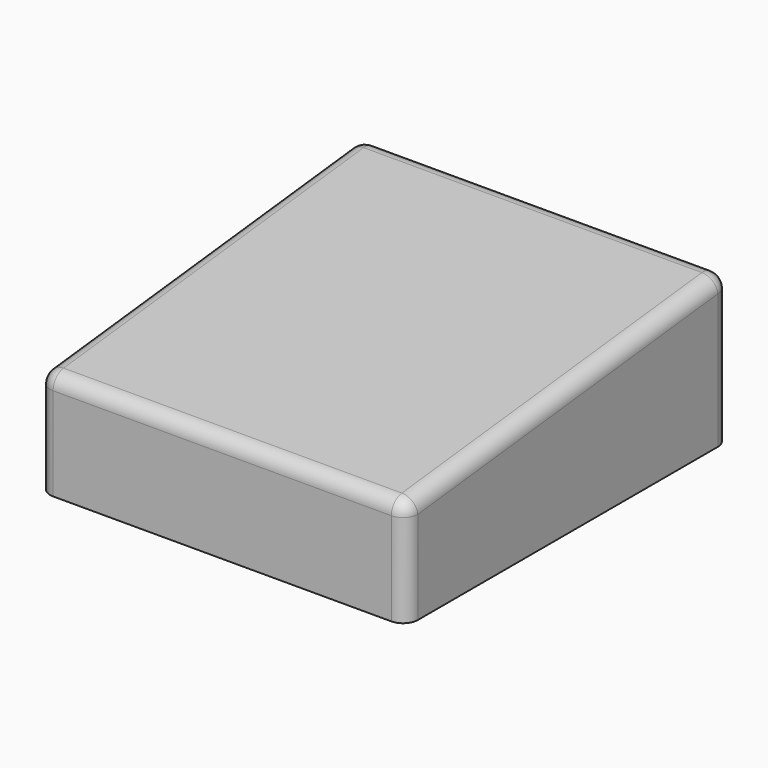
from build123d import *

# Parameters (mm, degrees)
F8_DEPTH      = 50
F8_DEPTH_BACK = 50
F9_R          = 4


with BuildPart() as f8:
    # F0 (on Right) → F8 (new body, two sides)
    with BuildSketch(Plane.YZ) as f8_sk:
        Polygon((-55, 28.8888888889), (-55, 0), (55, 0), (55, 41.1111111111), align=None)
    extrude(amount=F8_DEPTH)
    extrude(f8_sk.sketch, amount=-F8_DEPTH_BACK)

    # F9
    f9_edges = [f8.edges().sort_by_distance(p)[0] for p in [
        (50, -55, 14.444444),
        (-50, -55, 14.444444),
        (50, 55, 20.555556),
        (-50, 55, 20.555556),
        (0, 55, 41.111111),
        (50, 0, 35),
        (0, -55, 28.888889),
        (-50, 0, 35),
    ]]
    fillet(f9_edges, radius=F9_R)


solid = f8.part
